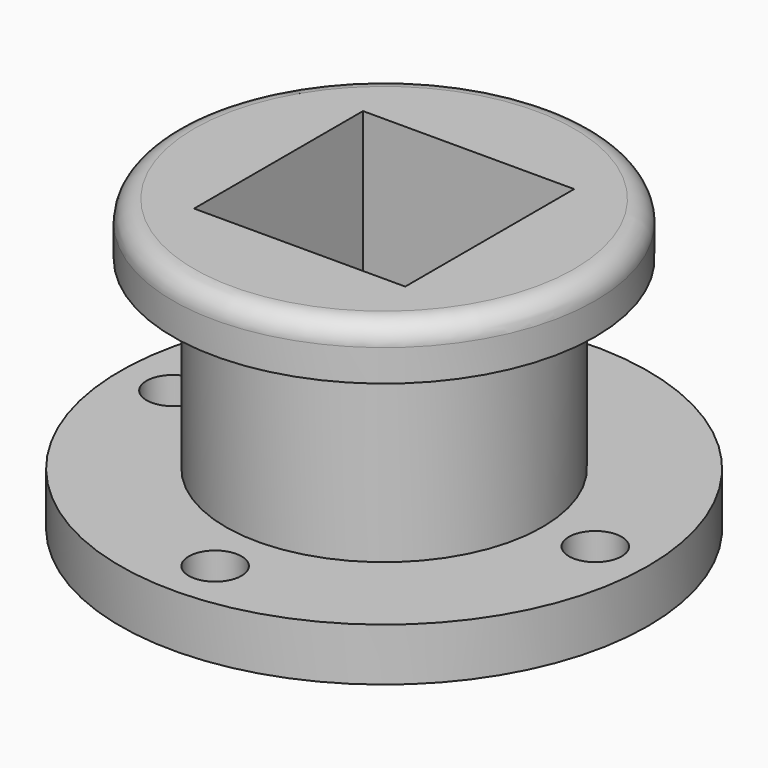
from build123d import *

# Parameters (mm, degrees)
F0_R      = 63.5
F1_DEPTH  = 12.7
F2_R      = 38.1
F3_DEPTH  = 57.15
F5_R      = 50.8
F6_DEPTH  = 12.7
F8_W      = 50.8
F8_H      = 50.8
F9_DEPTH  = 82.55
F10_R     = 5.08
F12_R     = 6.35
F13_DEPTH = 25.4


with BuildPart() as f1:
    # F0 (on Top) → F1 (new body)
    with BuildSketch(Plane.XY):
        Circle(F0_R)
    extrude(amount=F1_DEPTH)

    # F2 (on Top) → F3 (join)
    with BuildSketch(Plane.XY):
        Circle(F2_R)
    extrude(amount=F3_DEPTH)


with BuildPart() as f1_1:
    # F4: moved
    add(f1.part.moved(Location((0, 0, -57.1246))))

    # F5 (on Top) → F6 (join)
    with BuildSketch(Plane.XY):
        Circle(F5_R)
    extrude(amount=F6_DEPTH)


with BuildPart() as f1_2:
    # F7: moved
    add(f1_1.part.moved(Location((0, 0, -12.7))))

    # F8 (on Top) → F9 (cut)
    with BuildSketch(Plane.XY):
        Rectangle(F8_W, F8_H)
    extrude(amount=-F9_DEPTH, mode=Mode.SUBTRACT)

    # F10
    f10_edges = [f1_2.edges().sort_by_distance(p)[0] for p in [
        (-50.8, 0, 0),
    ]]
    fillet(f10_edges, radius=F10_R)


with BuildPart() as f1_3:
    # F11: moved
    add(f1_2.part.moved(Location((0, 0, 57.1246))))

    # F12 (on Top) → F13 (cut)
    with BuildSketch(Plane.XY):
        with Locations((0, -50.8)):
            Circle(F12_R)
        with Locations((50.8, 0)):
            Circle(F12_R)
        with Locations((0, 50.8)):
            Circle(F12_R)
        with Locations((-50.8, 0)):
            Circle(F12_R)
    extrude(amount=-F13_DEPTH, mode=Mode.SUBTRACT)


solid = f1_3.part
